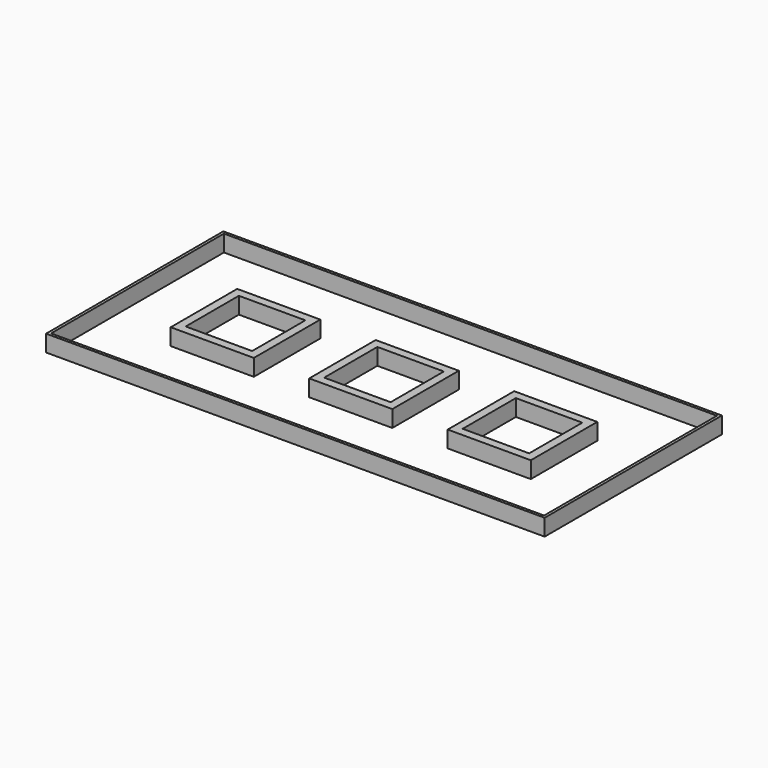
from build123d import *

# Parameters (mm, degrees)
F0_W     = 15
F0_H     = 15
F0_W_2   = 12
F0_H_2   = 12
F1_DEPTH = 3
F0_W_3   = 90
F0_H_3   = 40
F0_W_4   = 89
F0_H_4   = 39
F2_DEPTH = 3


with BuildPart() as f1:
    # F0 (on Top) → F1 (new body)
    with BuildSketch(Plane.XY):
        Rectangle(F0_W, F0_H)
        Rectangle(F0_W_2, F0_H_2, mode=Mode.SUBTRACT)
        with Locations((25, 0)):
            Rectangle(F0_W, F0_H)
        with Locations((25, 0)):
            Rectangle(F0_W_2, F0_H_2, mode=Mode.SUBTRACT)
        with Locations((-25, 0)):
            Rectangle(F0_W, F0_H)
        with Locations((-25, 0)):
            Rectangle(F0_W_2, F0_H_2, mode=Mode.SUBTRACT)
    extrude(amount=F1_DEPTH)


with BuildPart() as f2:
    # F0 (on Top) → F2 (new body)
    with BuildSketch(Plane.XY):
        Rectangle(F0_W_3, F0_H_3)
        Rectangle(F0_W_4, F0_H_4, mode=Mode.SUBTRACT)
    extrude(amount=F2_DEPTH)


solid = Compound([f1.part, f2.part])
